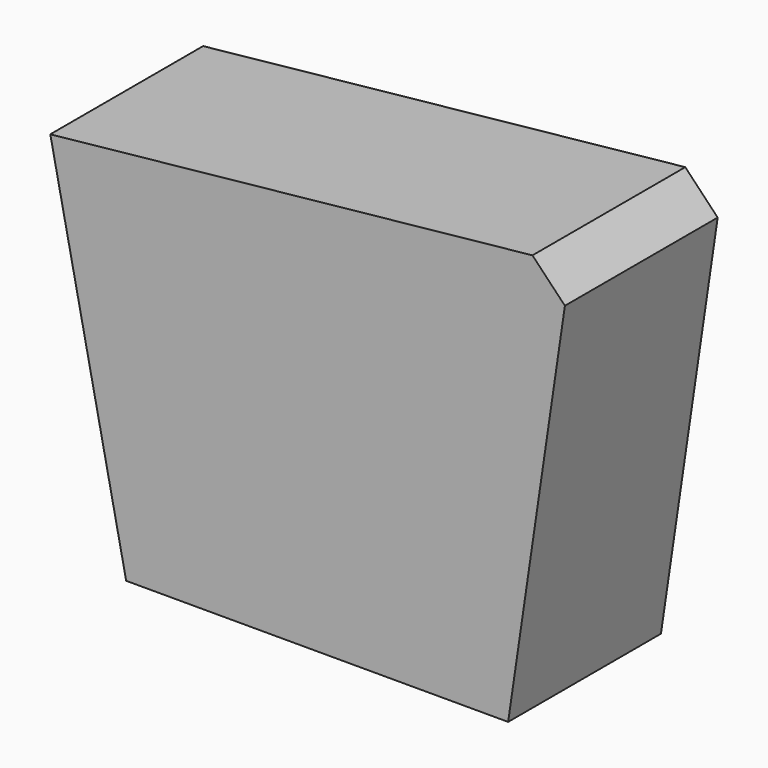
from build123d import *

# Parameters (mm, degrees)
F1_DEPTH = 25.4
F2_SIZE  = 5.08


with BuildPart() as f1:
    # F0 (on Front) → F1 (new body)
    with BuildSketch(Plane.XZ):
        Polygon((29.543495, 26.300911), (-39.631508, 19.095181), (-29.543485, -29.903777), (21.256905, -29.903777), align=None)
        Polygon((29.543495, 26.300911), (-39.631508, 19.095181), (-29.543485, -29.903777), (21.256905, -29.903777), align=None)
    extrude(amount=F1_DEPTH)

    # F2
    f2_edges = [f1.edges().sort_by_distance(p)[0] for p in [
        (29.543495, -12.7, 26.300911),
    ]]
    chamfer(f2_edges, length=F2_SIZE)


solid = f1.part
